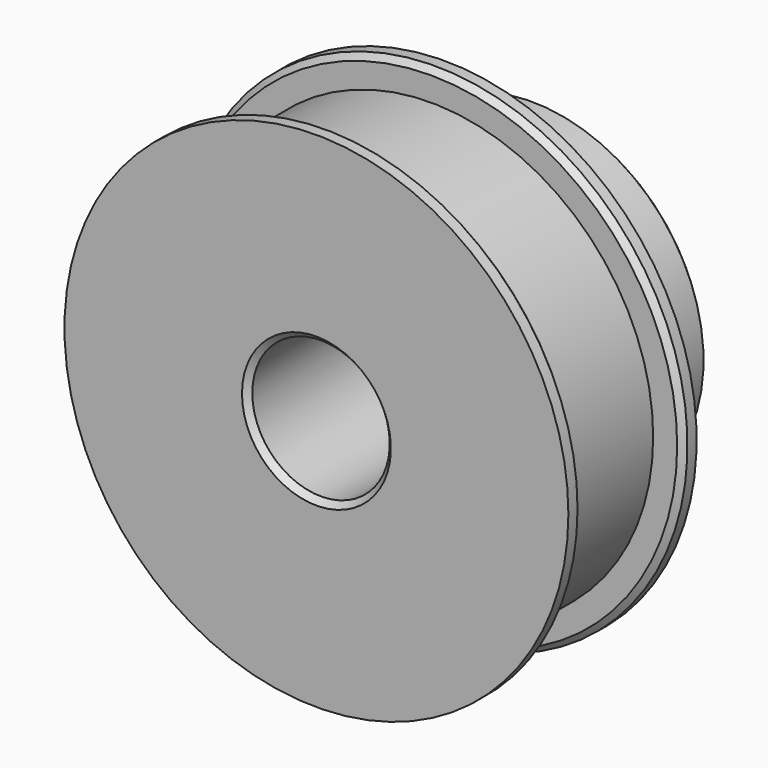
from build123d import *

# Parameters (mm, degrees)
F0_R     = 19.405
F1_DEPTH = 5.5
F2_R     = 22
F3_DEPTH = 1.5
F4_R     = 22
F5_DEPTH = 1.5
F6_R     = 15
F7_DEPTH = 10
F8_R     = 6
F9_DEPTH = 24.001
F10_SIZE = 0.5


with BuildPart() as f1:
    # F0 (on Front) → F1 (new body, symmetric)
    with BuildSketch(Plane.XZ):
        Circle(F0_R)
    extrude(amount=F1_DEPTH, both=True)

    # F2 (on face) → F3 (join)
    with BuildSketch(Plane.XZ.offset(5.5)):
        Circle(F2_R)
    extrude(amount=F3_DEPTH)

    # F4 (on face) → F5 (join)
    with BuildSketch(Plane(origin=(0, 5.5, 0), x_dir=(-1, 0, 0), z_dir=(0, 1, 0))):
        Circle(F4_R)
    extrude(amount=F5_DEPTH)

    # F6 (on face) → F7 (join)
    with BuildSketch(Plane(origin=(0, 7, 0), x_dir=(-1, 0, 0), z_dir=(0, 1, 0))):
        Circle(F6_R)
    extrude(amount=F7_DEPTH)

    # F8 (on face) → F9 (cut, through all)
    with BuildSketch(Plane(origin=(0, 17, 0), x_dir=(-1, 0, 0), z_dir=(0, 1, 0))):
        Circle(F8_R)
    extrude(amount=-F9_DEPTH, mode=Mode.SUBTRACT)

    # F10
    f10_edges = [f1.edges().sort_by_distance(p)[0] for p in [
        (6, -7, 0),
        (6, 17, 0),
        (-22, -5.5, 0),
        (22, 5.5, 0),
        (15, 17, 0),
    ]]
    chamfer(f10_edges, length=F10_SIZE)


solid = f1.part
